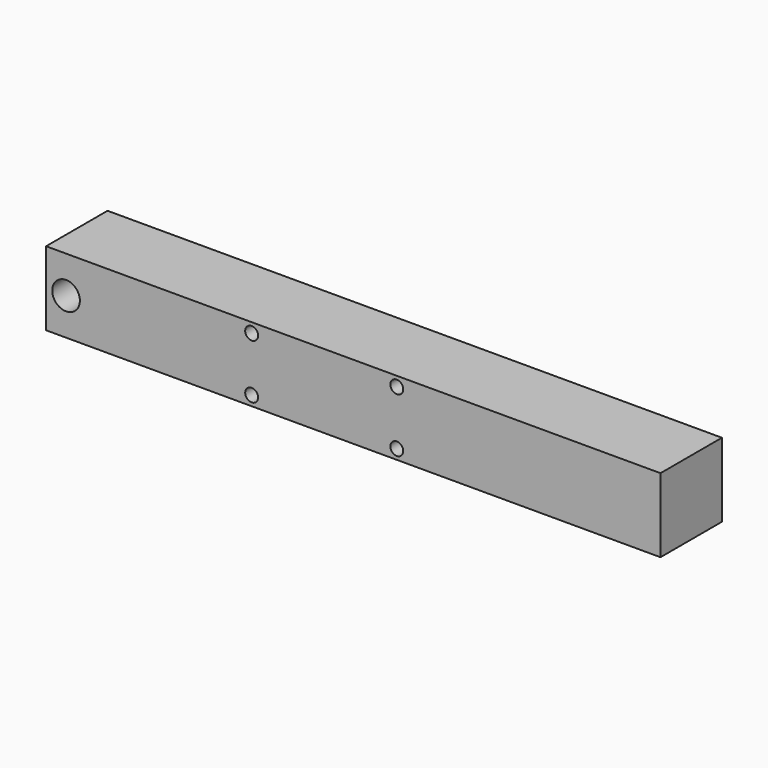
from build123d import *

# Parameters (mm, degrees)
F0_W     = 508
F0_H     = 61.19313
F0_R     = 5.334
F0_R_2   = 11.43
F0_R_3   = 5.338674
F1_DEPTH = 31.75


with BuildPart() as f1:
    # F0 (on Front) → F1 (new body, symmetric)
    with BuildSketch(Plane.XZ):
        with Locations((139.418788, 2.733509)):
            Rectangle(F0_W, F0_H)
        with Locations((55.385654, -19.760456)):
            Circle(F0_R, mode=Mode.SUBTRACT)
        with Locations((-98.071212, 2.731244)):
            Circle(F0_R_2, mode=Mode.SUBTRACT)
        with Locations((175.385654, -19.760456)):
            Circle(F0_R, mode=Mode.SUBTRACT)
        with Locations((55.385654, 25.239544)):
            Circle(F0_R_3, mode=Mode.SUBTRACT)
        with Locations((175.385654, 25.239544)):
            Circle(F0_R, mode=Mode.SUBTRACT)
    extrude(amount=F1_DEPTH, both=True)


solid = f1.part
